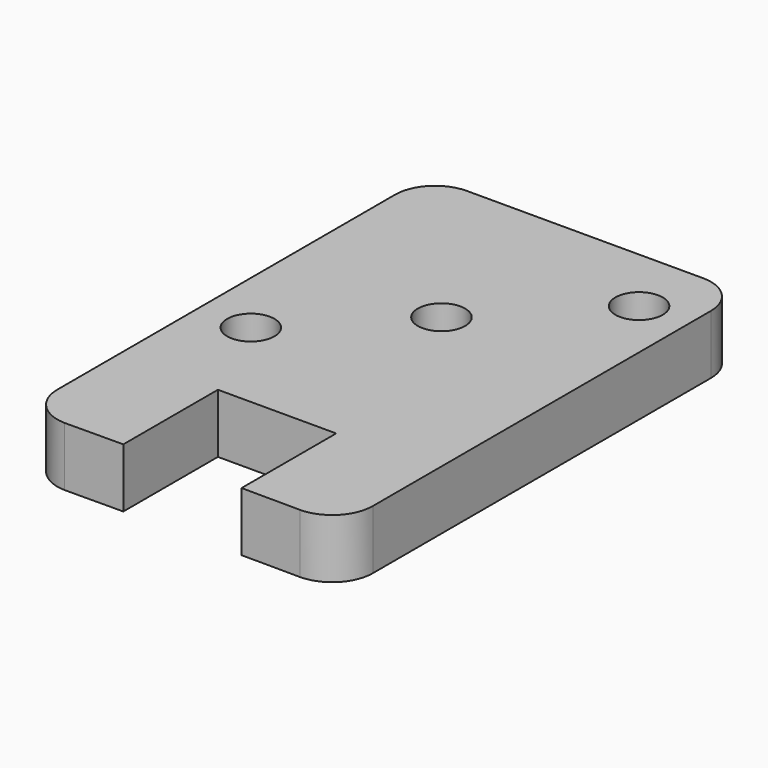
from build123d import *

# Parameters (mm, degrees)
SKETCH_R     = 12
PAD_DEPTH    = 30
PAD001_DEPTH = 30


with BuildPart() as part:
    # Sketch → Pad (new body)
    with BuildSketch(Plane.XY):
        with BuildLine():
            Line((29.808627, -133.970841), (29.808627, -73.970841))
            Line((29.808627, -73.970841), (-30.191373, -73.970841))
            Line((-30.191373, -73.970841), (-30.191373, -133.970841))
            Line((-59.898036, -134.146891), (-30.191373, -133.970841))
            ThreePointArc((-79.943921, -113.552778), (-74.10502, -127.922494), (-59.898036, -134.146891))
            Line((-79.943921, 100.605318), (-79.943921, -113.552778))
            ThreePointArc((-59.685634, 120.863606), (-74.010406, 114.930091), (-79.943921, 100.605318))
            Line((60.081005, 120.863606), (-59.685634, 120.863606))
            ThreePointArc((80.068853, 100.875757), (74.214548, 115.009301), (60.081005, 120.863606))
            Line((80.068853, -113.591927), (80.068853, 100.875757))
            ThreePointArc((59.515305, -134.144193), (74.048781, -128.125027), (80.068853, -113.591927))
            Line((29.808627, -133.970841), (59.515305, -134.144193))
        make_face()
        with Locations((0.120778, 29.919195)):
            Circle(SKETCH_R, mode=Mode.SUBTRACT)
        with Locations((-53.325886, -24.171413)):
            Circle(SKETCH_R, mode=Mode.SUBTRACT)
        with Locations((55.271923, 86.295181)):
            Circle(SKETCH_R, mode=Mode.SUBTRACT)
    extrude(amount=PAD_DEPTH)

    # Sketch → Pad001 (join)
    with BuildSketch(Plane.XY):
        with BuildLine():
            Line((29.808627, -133.970841), (29.808627, -73.970841))
            Line((29.808627, -73.970841), (-30.191373, -73.970841))
            Line((-30.191373, -73.970841), (-30.191373, -133.970841))
            Line((-59.898036, -134.146891), (-30.191373, -133.970841))
            ThreePointArc((-79.943921, -113.552778), (-74.10502, -127.922494), (-59.898036, -134.146891))
            Line((-79.943921, 100.605318), (-79.943921, -113.552778))
            ThreePointArc((-59.685634, 120.863606), (-74.010406, 114.930091), (-79.943921, 100.605318))
            Line((60.081005, 120.863606), (-59.685634, 120.863606))
            ThreePointArc((80.068853, 100.875757), (74.214548, 115.009301), (60.081005, 120.863606))
            Line((80.068853, -113.591927), (80.068853, 100.875757))
            ThreePointArc((59.515305, -134.144193), (74.048781, -128.125027), (80.068853, -113.591927))
            Line((29.808627, -133.970841), (59.515305, -134.144193))
        make_face()
        with Locations((0.120778, 29.919195)):
            Circle(SKETCH_R, mode=Mode.SUBTRACT)
        with Locations((-53.325886, -24.171413)):
            Circle(SKETCH_R, mode=Mode.SUBTRACT)
        with Locations((55.271923, 86.295181)):
            Circle(SKETCH_R, mode=Mode.SUBTRACT)
    extrude(amount=PAD001_DEPTH)


solid = part.part
